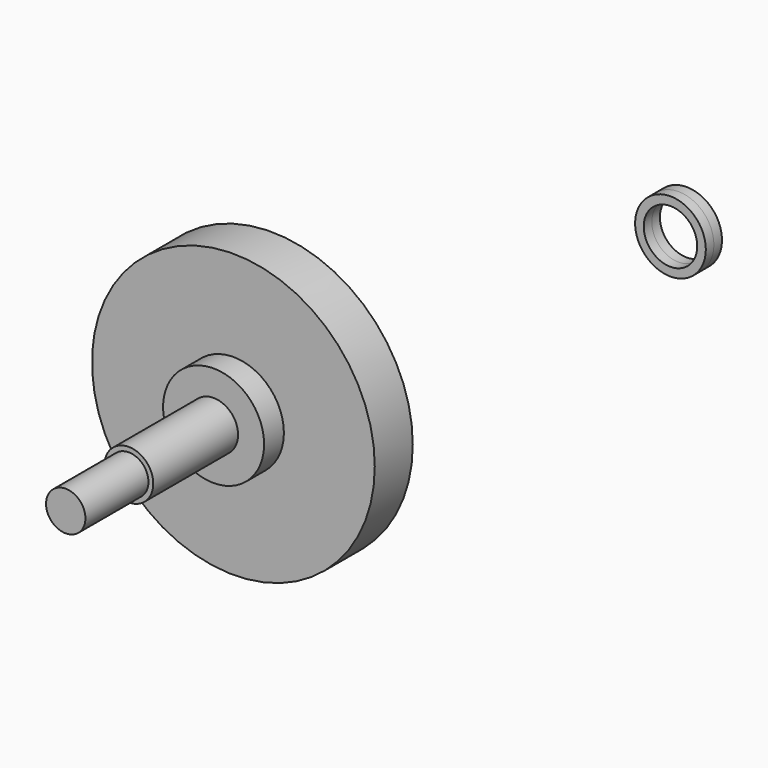
from build123d import *

# Parameters (mm, degrees)
F0_R          = 14
F1_DEPTH      = 2.35
F2_R          = 5
F3_DEPTH      = 4.8
F4_R          = 2.425
F5_DEPTH      = 10.5
F5_DEPTH_BACK = 16
F6_R          = 1.95
F7_DEPTH      = 7.8
F8_R          = 3.5
F8_R_2        = 2.65
F9_DEPTH      = 1
F10_R         = 3.5
F10_R_2       = 2.65
F11_DEPTH     = 1


with BuildPart() as f1:
    # F0 (on Front) → F1 (new body, symmetric)
    with BuildSketch(Plane.XZ):
        Circle(F0_R)
    extrude(amount=F1_DEPTH, both=True)

    # F2 (on Front) → F3 (join, symmetric)
    with BuildSketch(Plane.XZ):
        Circle(F2_R)
    extrude(amount=F3_DEPTH, both=True)

    # F4 (on face) → F5 (join, two sides)
    with BuildSketch(Plane.XZ.offset(4.8)) as f5_sk:
        Circle(F4_R)
    extrude(amount=F5_DEPTH)
    extrude(f5_sk.sketch, amount=-F5_DEPTH_BACK)

    # F6 (on face) → F7 (join)
    with BuildSketch(Plane.XZ.offset(15.3)):
        Circle(F6_R)
    extrude(amount=F7_DEPTH)


with BuildPart() as f9:
    # F8 (on Front) → F9 (new body)
    with BuildSketch(Plane.XZ):
        with Locations((42.197611, 28.676543)):
            Circle(F8_R)
        with Locations((42.197611, 28.676543)):
            Circle(F8_R_2, mode=Mode.SUBTRACT)
    extrude(amount=F9_DEPTH)

    # F10 (on face) → F11 (join)
    with BuildSketch(Plane(origin=(0, 0, 0), x_dir=(-1, 0, 0), z_dir=(0, 1, 0))):
        with Locations((-42.197611, 28.676543)):
            Circle(F10_R)
        with Locations((-42.197611, 28.676543)):
            Circle(F10_R_2, mode=Mode.SUBTRACT)
    extrude(amount=F11_DEPTH)


solid = Compound([f1.part, f9.part])
